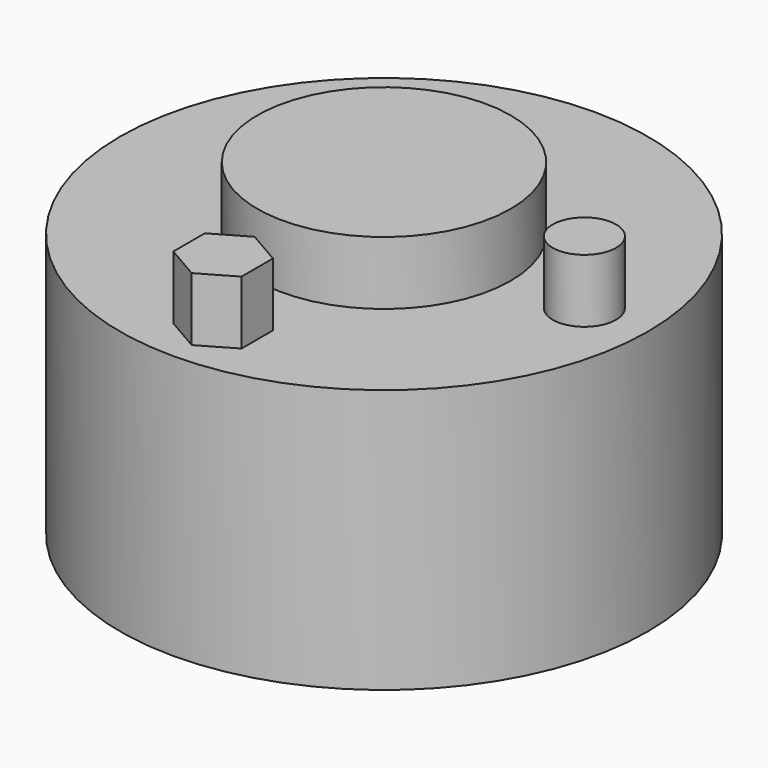
from build123d import *

# Parameters (mm, degrees)
F0_R     = 5
F1_DEPTH = 5
F2_R     = 0.6
F3_DEPTH = 1.2
F2_R_2   = 2.4
F4_DEPTH = 1.2


with BuildPart() as f1:
    # F0 (on Top) → F1 (new body)
    with BuildSketch(Plane.XY):
        with Locations((-10.536088, 0)):
            Circle(F0_R)
    extrude(amount=F1_DEPTH)

    # F2 (on face) → F3 (cut)
    with BuildSketch(Plane.XY.offset(5)):
        with Locations((-6.740328, 0)):
            Circle(F2_R)
        Polygon((-9.891057, -4.180577), (-9.891057, -3.435759), (-10.536088, -3.06335), (-11.181119, -3.435759), (-11.181119, -4.180577), (-10.536088, -4.552986), align=None)
    extrude(amount=-F3_DEPTH, mode=Mode.SUBTRACT)

    # F2 (on face) → F4 (join)
    with BuildSketch(Plane.XY.offset(5)):
        with Locations((-10.536088, 0)):
            Circle(F2_R_2)
        with Locations((-6.740328, 0)):
            Circle(F2_R)
        Polygon((-9.891057, -4.180577), (-9.891057, -3.435759), (-10.536088, -3.06335), (-11.181119, -3.435759), (-11.181119, -4.180577), (-10.536088, -4.552986), align=None)
    extrude(amount=F4_DEPTH)


solid = f1.part
